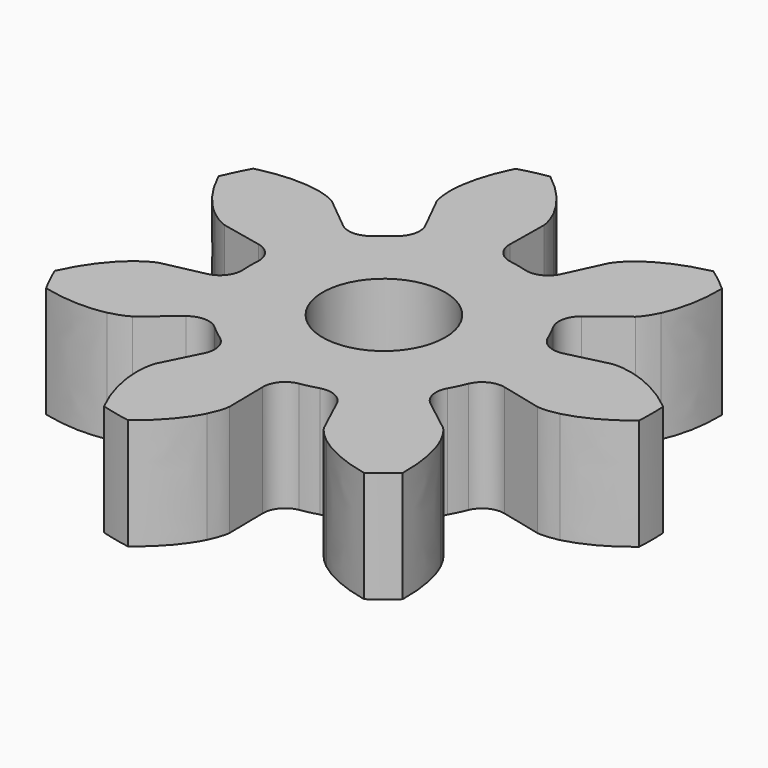
from build123d import *

# Parameters (mm, degrees)
CYLINDER002_R     = 0.875
CYLINDER002_DEPTH = 10
EXTRUDE_DEPTH     = 1.59


with BuildPart() as cylinder002:
    # Cylinder002 → Cylinder002 (new body)
    with BuildSketch(Plane.XY):
        Circle(CYLINDER002_R)
    extrude(amount=CYLINDER002_DEPTH)


with BuildPart() as cut017:
    # InvoluteGear → Extrude (new body)
    with BuildSketch(Plane.XY):
        with BuildLine():
            Line((2.145433, -0.523441), (2.728817, -0.664878))
            add(Edge.make_bspline(
                [(2.728817, -0.664878), (2.761585, -0.669616), (2.859596, -0.677652), (3.02783, -0.638771)],
                knots=[0, 0, 0, 0, 1, 1, 1, 1], degree=3))
            add(Edge.make_bspline(
                [(3.02783, -0.638771), (3.226212, -0.590574), (3.503888, -0.476829), (3.820611, -0.215776)],
                knots=[0, 0, 0, 0, 1, 1, 1, 1], degree=3))
            ThreePointArc((3.820611, -0.215776), (3.826702, 0), (3.820611, 0.215776))
            add(Edge.make_bspline(
                [(3.820611, 0.215776), (3.503888, 0.476829), (3.226212, 0.590574), (3.02783, 0.638771)],
                knots=[0, 0, 0, 0, 1, 1, 1, 1], degree=3))
            add(Edge.make_bspline(
                [(3.02783, 0.638771), (2.859596, 0.677652), (2.761585, 0.669616), (2.728817, 0.664878)],
                knots=[0, 0, 0, 0, 1, 1, 1, 1], degree=3))
            Line((2.728817, 0.664878), (2.145433, 0.523441))
            ThreePointArc((2.145433, 0.523441), (1.925498, 0.548923), (1.775218, 0.711518))
            ThreePointArc((1.775218, 0.711518), (1.723103, 0.829803), (1.663117, 0.944297))
            ThreePointArc((1.663117, 0.944297), (1.629693, 1.163167), (1.746898, 1.351007))
            Line((1.746898, 1.351007), (2.221212, 1.718931))
            add(Edge.make_bspline(
                [(2.221212, 1.718931), (2.245347, 1.741595), (2.312739, 1.813213), (2.387233, 1.968986)],
                knots=[0, 0, 0, 0, 1, 1, 1, 1], degree=3))
            add(Edge.make_bspline(
                [(2.387233, 1.968986), (2.473239, 2.154137), (2.557438, 2.442152), (2.550813, 2.85254)],
                knots=[0, 0, 0, 0, 1, 1, 1, 1], degree=3))
            ThreePointArc((2.550813, 2.85254), (2.38591, 2.991836), (2.213412, 3.121609))
            add(Edge.make_bspline(
                [(2.213412, 3.121609), (1.811838, 3.036748), (1.549781, 2.89057), (1.38841, 2.76552)],
                knots=[0, 0, 0, 0, 1, 1, 1, 1], degree=3))
            add(Edge.make_bspline(
                [(1.38841, 2.76552), (1.253119, 2.658231), (1.198293, 2.576592), (1.181567, 2.54802)],
                knots=[0, 0, 0, 0, 1, 1, 1, 1], degree=3))
            Line((1.181567, 2.54802), (0.928413, 2.003727))
            ThreePointArc((0.928413, 2.003727), (0.771363, 1.847662), (0.550543, 1.831545))
            ThreePointArc((0.550543, 1.831545), (0.425571, 1.86455), (0.298655, 1.889037))
            ThreePointArc((0.298655, 1.889037), (0.106697, 1.999368), (0.032913, 2.20812))
            Line((0.032913, 2.20812), (0.040989, 2.808349))
            add(Edge.make_bspline(
                [(0.040989, 2.808349), (0.038317, 2.84135), (0.024342, 2.938692), (-0.051, 3.094056)],
                knots=[0, 0, 0, 0, 1, 1, 1, 1], degree=3))
            add(Edge.make_bspline(
                [(-0.051, 3.094056), (-0.142133, 3.276739), (-0.314814, 3.522142), (-0.6398, 3.772835)],
                knots=[0, 0, 0, 0, 1, 1, 1, 1], degree=3))
            ThreePointArc((-0.6398, 3.772835), (-0.851521, 3.730759), (-1.060532, 3.676806))
            add(Edge.make_bspline(
                [(-1.060532, 3.676806), (-1.244562, 3.309933), (-1.293666, 3.013909), (-1.296511, 2.809776)],
                knots=[0, 0, 0, 0, 1, 1, 1, 1], degree=3))
            add(Edge.make_bspline(
                [(-1.296511, 2.809776), (-1.296982, 2.637108), (-1.267337, 2.543343), (-1.255427, 2.512451)],
                knots=[0, 0, 0, 0, 1, 1, 1, 1], degree=3))
            Line((-1.255427, 2.512451), (-0.987721, 1.975166))
            ThreePointArc((-0.987721, 1.975166), (-0.963624, 1.755075), (-1.088702, 1.572382))
            ThreePointArc((-1.088702, 1.572382), (-1.192424, 1.495253), (-1.2907, 1.411294))
            ThreePointArc((-1.2907, 1.411294), (-1.496645, 1.330005), (-1.705856, 1.402472))
            Line((-1.705856, 1.402472), (-2.1701, 1.783023))
            add(Edge.make_bspline(
                [(-2.1701, 1.783023), (-2.197567, 1.80151), (-2.282385, 1.851276), (-2.450828, 1.889239)],
                knots=[0, 0, 0, 0, 1, 1, 1, 1], degree=3))
            add(Edge.make_bspline(
                [(-2.450828, 1.889239), (-2.650476, 1.931889), (-2.950005, 1.949888), (-3.34863, 1.852109)],
                knots=[0, 0, 0, 0, 1, 1, 1, 1], degree=3))
            ThreePointArc((-3.34863, 1.852109), (-3.44774, 1.660344), (-3.535874, 1.463293))
            add(Edge.make_bspline(
                [(-3.535874, 1.463293), (-3.363782, 1.090672), (-3.162956, 0.867712), (-3.005133, 0.738213)],
                knots=[0, 0, 0, 0, 1, 1, 1, 1], degree=3))
            add(Edge.make_bspline(
                [(-3.005133, 0.738213), (-2.870429, 0.630189), (-2.778637, 0.594904), (-2.747059, 0.584955)],
                knots=[0, 0, 0, 0, 1, 1, 1, 1], degree=3))
            Line((-2.747059, 0.584955), (-2.160081, 0.459265))
            ThreePointArc((-2.160081, 0.459265), (-1.972982, 0.34088), (-1.908132, 0.129183))
            ThreePointArc((-1.908132, 0.129183), (-1.9125, 0), (-1.908132, -0.129183))
            ThreePointArc((-1.908132, -0.129183), (-1.972982, -0.34088), (-2.160081, -0.459265))
            Line((-2.160081, -0.459265), (-2.747059, -0.584955))
            add(Edge.make_bspline(
                [(-2.747059, -0.584955), (-2.778637, -0.594904), (-2.870429, -0.630189), (-3.005133, -0.738213)],
                knots=[0, 0, 0, 0, 1, 1, 1, 1], degree=3))
            add(Edge.make_bspline(
                [(-3.005133, -0.738213), (-3.162956, -0.867712), (-3.363782, -1.090672), (-3.535874, -1.463293)],
                knots=[0, 0, 0, 0, 1, 1, 1, 1], degree=3))
            ThreePointArc((-3.535874, -1.463293), (-3.44774, -1.660344), (-3.34863, -1.852109))
            add(Edge.make_bspline(
                [(-3.34863, -1.852109), (-2.950005, -1.949888), (-2.650476, -1.931889), (-2.450828, -1.889239)],
                knots=[0, 0, 0, 0, 1, 1, 1, 1], degree=3))
            add(Edge.make_bspline(
                [(-2.450828, -1.889239), (-2.282385, -1.851276), (-2.197567, -1.80151), (-2.1701, -1.783023)],
                knots=[0, 0, 0, 0, 1, 1, 1, 1], degree=3))
            Line((-2.1701, -1.783023), (-1.705856, -1.402472))
            ThreePointArc((-1.705856, -1.402472), (-1.496645, -1.330005), (-1.2907, -1.411294))
            ThreePointArc((-1.2907, -1.411294), (-1.192424, -1.495253), (-1.088702, -1.572382))
            ThreePointArc((-1.088702, -1.572382), (-0.963624, -1.755075), (-0.987721, -1.975166))
            Line((-0.987721, -1.975166), (-1.255427, -2.512451))
            add(Edge.make_bspline(
                [(-1.255427, -2.512451), (-1.267337, -2.543343), (-1.296982, -2.637108), (-1.296511, -2.809776)],
                knots=[0, 0, 0, 0, 1, 1, 1, 1], degree=3))
            add(Edge.make_bspline(
                [(-1.296511, -2.809776), (-1.293666, -3.013909), (-1.244562, -3.309933), (-1.060532, -3.676806)],
                knots=[0, 0, 0, 0, 1, 1, 1, 1], degree=3))
            ThreePointArc((-1.060532, -3.676806), (-0.851521, -3.730759), (-0.6398, -3.772835))
            add(Edge.make_bspline(
                [(-0.6398, -3.772835), (-0.314814, -3.522142), (-0.142133, -3.276739), (-0.051, -3.094056)],
                knots=[0, 0, 0, 0, 1, 1, 1, 1], degree=3))
            add(Edge.make_bspline(
                [(-0.051, -3.094056), (0.024342, -2.938692), (0.038317, -2.84135), (0.040989, -2.808349)],
                knots=[0, 0, 0, 0, 1, 1, 1, 1], degree=3))
            Line((0.040989, -2.808349), (0.032913, -2.20812))
            ThreePointArc((0.032913, -2.20812), (0.106697, -1.999368), (0.298655, -1.889037))
            ThreePointArc((0.298655, -1.889037), (0.425571, -1.86455), (0.550543, -1.831545))
            ThreePointArc((0.550543, -1.831545), (0.771363, -1.847662), (0.928413, -2.003727))
            Line((0.928413, -2.003727), (1.181567, -2.54802))
            add(Edge.make_bspline(
                [(1.181567, -2.54802), (1.198293, -2.576592), (1.253119, -2.658231), (1.38841, -2.76552)],
                knots=[0, 0, 0, 0, 1, 1, 1, 1], degree=3))
            add(Edge.make_bspline(
                [(1.38841, -2.76552), (1.549781, -2.89057), (1.811838, -3.036748), (2.213412, -3.121609)],
                knots=[0, 0, 0, 0, 1, 1, 1, 1], degree=3))
            ThreePointArc((2.213412, -3.121609), (2.38591, -2.991836), (2.550813, -2.85254))
            add(Edge.make_bspline(
                [(2.550813, -2.85254), (2.557438, -2.442152), (2.473239, -2.154137), (2.387233, -1.968986)],
                knots=[0, 0, 0, 0, 1, 1, 1, 1], degree=3))
            add(Edge.make_bspline(
                [(2.387233, -1.968986), (2.312739, -1.813213), (2.245347, -1.741595), (2.221212, -1.718931)],
                knots=[0, 0, 0, 0, 1, 1, 1, 1], degree=3))
            Line((2.221212, -1.718931), (1.746898, -1.351007))
            ThreePointArc((1.746898, -1.351007), (1.629693, -1.163167), (1.663117, -0.944297))
            ThreePointArc((1.663117, -0.944297), (1.723103, -0.829803), (1.775218, -0.711518))
            ThreePointArc((1.775218, -0.711518), (1.925498, -0.548923), (2.145433, -0.523441))
        make_face()
    extrude(amount=EXTRUDE_DEPTH)

    # Cut017: cut Cylinder002
    add(cylinder002.part, mode=Mode.SUBTRACT)


solid = cut017.part
